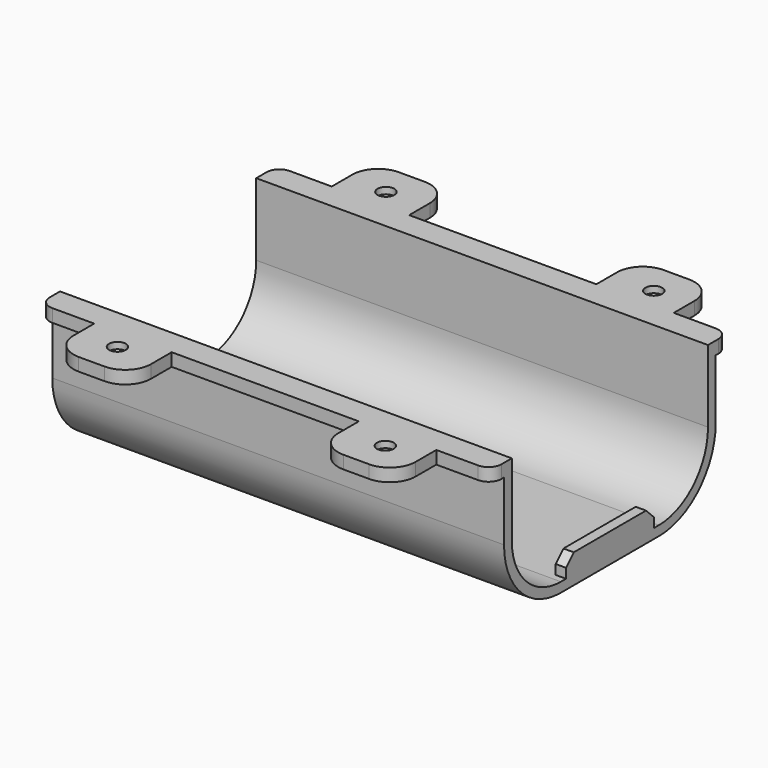
from build123d import *

# Parameters (mm, degrees)
PAD006_DEPTH            = 70
POCKET014_DEPTH         = 2.001
SKETCH024_R             = 1.3
POCKET002_DEPTH         = 2.001
SKETCH025_R             = 2.25
POCKET015_DEPTH         = 1
PAD007_DEPTH            = 1.6
LINEARPATTERN_COUNT     = 2
LINEARPATTERN_PITCH     = 68.4
FILLET001_R             = 2
FILLET002_R             = 4
FILLET003_R             = 4
BODY002_PLACEMENT_ANGLE = 180


with BuildPart() as part:
    # Sketch022 → Pad006 (new body)
    with BuildSketch(Plane.YZ):
        with BuildLine():
            ThreePointArc((19, 11.2), (16.217514, 17.917514), (9.5, 20.7))
            Line((-9.5, 20.7), (9.5, 20.7))
            ThreePointArc((-9.5, 20.7), (-16.217514, 17.917514), (-19, 11.2))
            Line((-19, 11.2), (-19, 0))
            Line((-19, 0), (-31, 0))
            Line((-31, 0), (-31, 2))
            Line((-31, 2), (-20.5, 2))
            Line((-20.5, 2), (-20.5, 11.2))
            ThreePointArc((-9.5, 22.2), (-17.278175, 18.978175), (-20.5, 11.2))
            Line((-9.5, 22.2), (9.5, 22.2))
            ThreePointArc((20.5, 11.2), (17.278175, 18.978175), (9.5, 22.2))
            Line((20.5, 2), (20.5, 11.2))
            Line((31, 2), (20.5, 2))
            Line((31, 0), (31, 2))
            Line((19, 0), (31, 0))
            Line((19, 11.2), (19, 0))
        make_face()
    extrude(amount=PAD006_DEPTH)

    # Sketch023 (on Face13 of Pad006) → Pocket014 (cut, through all)
    with BuildSketch(Plane(origin=(0, 0, 2), x_dir=(0, -1, 0), z_dir=(0, 0, 1))):
        Polygon((23, 73), (23, 61.5), (35, 61.5), (35, 49.5), (23, 49.5), (23, 20.5), (35, 20.5), (35, 8.5), (23, 8.5), (23, -3), (46, -3), (46, 73), align=None)
        Polygon((-46, 73), (-23, 73), (-23, 61.5), (-35, 61.5), (-35, 49.5), (-23, 49.5), (-23, 20.5), (-35, 20.5), (-35, 8.5), (-23, 8.5), (-23, -3), (-46, -3), align=None)
    extrude(amount=-POCKET014_DEPTH, mode=Mode.SUBTRACT)

    # Sketch024 (on Face17 of Pocket014) → Pocket002 (cut, through all)
    with BuildSketch(Plane(origin=(0, 0, 2), x_dir=(0, -1, 0), z_dir=(0, 0, 1))):
        with Locations((26, 14)):
            Circle(SKETCH024_R)
        with Locations((-26, 14)):
            Circle(SKETCH024_R)
        with Locations((26, 55.5)):
            Circle(SKETCH024_R)
        with Locations((-26, 55.5)):
            Circle(SKETCH024_R)
    extrude(amount=-POCKET002_DEPTH, mode=Mode.SUBTRACT)

    # Sketch025 (on Face17 of Pocket002) → Pocket015 (cut)
    with BuildSketch(Plane(origin=(0, 0, 2), x_dir=(0, -1, 0), z_dir=(0, 0, 1))):
        with Locations((26, 55.5)):
            Circle(SKETCH025_R)
        with Locations((26, 14)):
            Circle(SKETCH025_R)
        with Locations((-26, 55.5)):
            Circle(SKETCH025_R)
        with Locations((-26, 14)):
            Circle(SKETCH025_R)
    extrude(amount=-POCKET015_DEPTH, mode=Mode.SUBTRACT)

    # Sketch026 → Pad007 (join)
    with BuildSketch(Plane.YZ):
        Polygon((-8.5, 21.7), (8.5, 21.7), (8.5, 19.2), (7, 17.7), (-7, 17.7), (-8.5, 19.2), align=None)
    pad007 = extrude(amount=PAD007_DEPTH)

    # LinearPattern: Pad007 ×2
    with Locations(*[(i * LINEARPATTERN_PITCH, 0, 0) for i in range(1, LINEARPATTERN_COUNT)]):
        add(pad007)

    # Fillet001
    fillet001_edges = [part.edges().sort_by_distance(p)[0] for p in [
        (70, 23, 1),
        (70, -23, 1),
        (0, -23, 1),
        (0, 23, 1),
    ]]
    fillet(fillet001_edges, radius=FILLET001_R)

    # Fillet002
    fillet002_edges = [part.edges().sort_by_distance(p)[0] for p in [
        (8.5, -31, 1),
        (20.5, -31, 1),
        (49.5, -31, 1),
        (61.5, -31, 1),
    ]]
    fillet(fillet002_edges, radius=FILLET002_R)

    # Fillet003
    fillet003_edges = [part.edges().sort_by_distance(p)[0] for p in [
        (61.5, 31, 1),
        (49.5, 31, 1),
        (20.5, 31, 1),
        (8.5, 31, 1),
    ]]
    fillet(fillet003_edges, radius=FILLET003_R)


with BuildPart() as part_1:
    # Body002 placement: moved
    add(part.part.moved(Location((35, 0, -32))).rotate(Axis((35, 0, -32), (0, 1, 0)), BODY002_PLACEMENT_ANGLE))


solid = part_1.part
